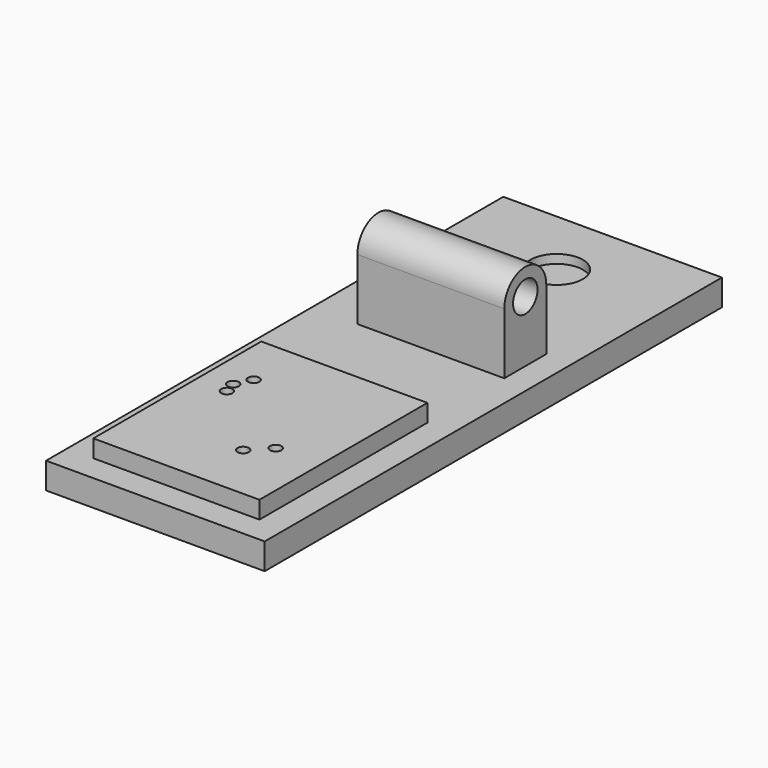
from build123d import *

# Parameters (mm, degrees)
F0_W     = 4.1414871812
F0_H     = 3
F0_W_2   = 25
F0_H_2   = 35.3582080007
F0_R     = 3
F0_W_3   = 3.0508699417
F0_W_4   = 6.3956826925
F0_W_5   = 5.4119601846
F0_W_6   = 19
F0_H_3   = 13.8665742949
F0_R_2   = 0.65
F1_DEPTH = 3
F2_DEPTH = 2
F6_DEPTH = 15.5
F7_R     = 3
F8_DEPTH = 2
F9_DEPTH = 1.3


with BuildPart() as f1:
    # F0 (on Top) → F1 (new body)
    with BuildSketch(Plane.XY):
        with Locations((-2.0707435906, -1.5)):
            Rectangle(F0_W, F0_H)
        with Locations((-9.5, 44.6791040003)):
            Rectangle(F0_W_2, F0_H_2)
        with Locations((-9.5, 54.3582080007)):
            Circle(F0_R, mode=Mode.SUBTRACT)
        with Locations((-17.4745650291, -1.5)):
            Rectangle(F0_W_3, F0_H)
        with Locations((-7.3393285275, -1.5)):
            Rectangle(F0_W_4, F0_H)
        Polygon((0, 10.1334257051), (0, 0), (0, -3), (3, -3), (3, 27), (-22, 27), (-22, -3), (-19, -3), (-19, 0), (-19, 10.1334257051), (-19, 24), (0, 24), align=None)
        with Locations((-13.243149966, -1.5)):
            Rectangle(F0_W_5, F0_H)
        with Locations((-9.5, 17.0667128526)):
            Rectangle(F0_W_6, F0_H_3)
        with Locations((-15.8, 16)):
            Circle(F0_R_2, mode=Mode.SUBTRACT)
        with Locations((-15.4, 14.6)):
            Circle(F0_R_2, mode=Mode.SUBTRACT)
        with Locations((-14.9, 17.8)):
            Circle(F0_R_2, mode=Mode.SUBTRACT)
        Polygon((-4.1414871812, 0), (0, 0), (0, 10.1334257051), (-19, 10.1334257051), (-19, 0), (-15.9491300583, 0), (-10.5371698737, 0), align=None)
        with Locations((-7.14, 6.6)):
            Circle(F0_R_2, mode=Mode.SUBTRACT)
        with Locations((-5.1, 8.7)):
            Circle(F0_R_2, mode=Mode.SUBTRACT)
    extrude(amount=-F1_DEPTH)

    # F0 (on Top) → F2 (join)
    with BuildSketch(Plane.XY):
        with Locations((-9.5, 17.0667128526)):
            Rectangle(F0_W_6, F0_H_3)
        with Locations((-15.8, 16)):
            Circle(F0_R_2, mode=Mode.SUBTRACT)
        with Locations((-15.4, 14.6)):
            Circle(F0_R_2, mode=Mode.SUBTRACT)
        with Locations((-14.9, 17.8)):
            Circle(F0_R_2, mode=Mode.SUBTRACT)
        Polygon((-4.1414871812, 0), (0, 0), (0, 10.1334257051), (-19, 10.1334257051), (-19, 0), (-15.9491300583, 0), (-10.5371698737, 0), align=None)
        with Locations((-7.14, 6.6)):
            Circle(F0_R_2, mode=Mode.SUBTRACT)
        with Locations((-5.1, 8.7)):
            Circle(F0_R_2, mode=Mode.SUBTRACT)
    extrude(amount=F2_DEPTH)

    # F5 (on offset) → F6 (join)
    with BuildSketch(Plane(origin=(-16.8, 0, 0), x_dir=(0, -1, 0), z_dir=(-1, 0, 0))):
        with BuildLine():
            ThreePointArc((-35, 7), (-38, 10), (-41, 7))
            Line((-41, 7), (-39.75, 7))
            ThreePointArc((-39.75, 7), (-38, 8.75), (-36.25, 7))
            Line((-36.25, 7), (-35, 7))
        make_face()
        with BuildLine():
            Line((-41, 7), (-41, 0))
            Line((-41, 0), (-35, 0))
            Line((-35, 0), (-35, 7))
            Line((-35, 7), (-36.25, 7))
            ThreePointArc((-36.25, 7), (-38, 5.25), (-39.75, 7))
            Line((-39.75, 7), (-41, 7))
        make_face()
    extrude(amount=-F6_DEPTH)

    # F7 (on face) → F8 (join)
    with BuildSketch(Plane(origin=(0, 0, -3), x_dir=(1, 0, 0), z_dir=(0, 0, -1))):
        with Locations((-9.5, -54.3582080007)):
            Circle(F7_R)
    extrude(amount=-F8_DEPTH)

    # F9 (add): a face of the model
    f9_faces = [f1.faces().sort_by_distance(p)[0] for p in [
        (-1.3, 38, 4.2267630358),
    ]]
    extrude(f9_faces, amount=F9_DEPTH)


solid = f1.part
